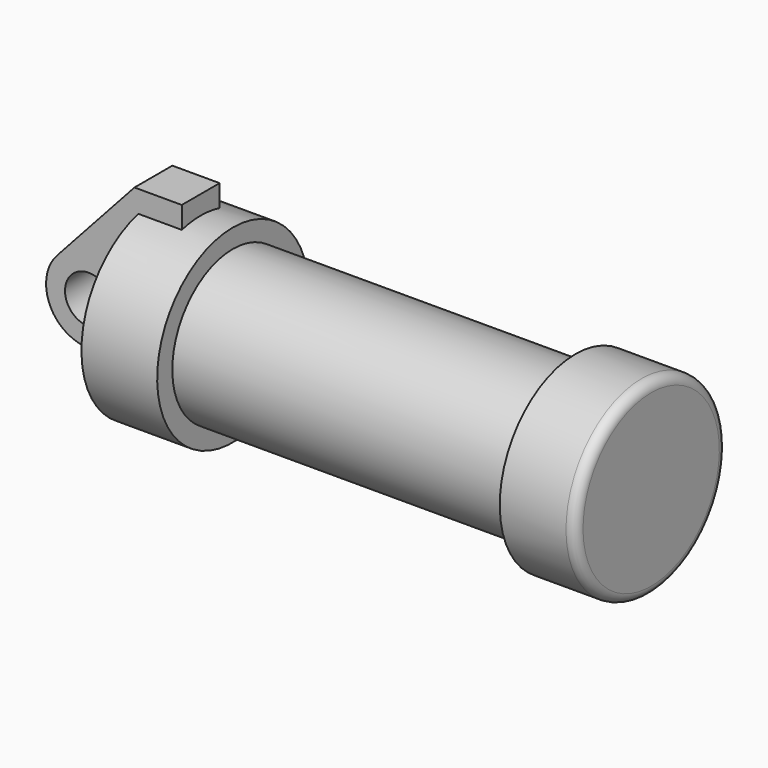
from build123d import *

# Parameters (mm, degrees)
F0_W     = 5.842
F0_H     = 12.7
F0_R     = 3.175
F2_DEPTH = 3.175
F3_R     = 1.27


with BuildPart() as f1:
    # F0 (on Front) → F1 (revolve)
    with BuildSketch(Plane.XZ):
        with Locations((2.921, 6.35)):
            Rectangle(F0_W, F0_H)
        Polygon((5.842, 12.7), (5.842, 0), (66.294, 0), (66.294, 12.7), (56.134, 12.7), (56.134, 10.16), (10.16, 10.16), (10.16, 12.7), align=None)
    revolve(axis=Axis((33.147, 0, 0), (-1, 0, 0)))

    # F0 (on Front) → F2 (join, symmetric)
    with BuildSketch(Plane.XZ):
        with BuildLine():
            Line((-0.9398, 0), (0, 0))
            Line((0, 0), (0, 12.7))
            Line((0, 12.7), (5.842, 12.7))
            Line((5.842, 12.7), (5.842, 15.24))
            Line((5.842, 15.24), (-0.508, 15.24))
            Line((-0.508, 15.24), (-10.88063, 3.847543))
            ThreePointArc((-10.88063, 3.847543), (-4.591961, 5.329721), (-0.9398, 0))
        make_face()
        with BuildLine():
            ThreePointArc((-8.182663, -5.506983), (-3.195791, -4.549339), (-0.9398, 0))
            ThreePointArc((-0.9398, 0), (-4.591961, 5.329721), (-10.88063, 3.847543))
            ThreePointArc((-10.88063, 3.847543), (-12.145978, -1.583727), (-8.182663, -5.506983))
        make_face()
        with Locations((-6.6548, 0)):
            Circle(F0_R, mode=Mode.SUBTRACT)
        with BuildLine():
            Line((5.842, 0), (0, 0))
            Line((0, 0), (-0.9398, 0))
            ThreePointArc((-0.9398, 0), (-3.195791, -4.549339), (-8.182663, -5.506983))
            Line((-8.182663, -5.506983), (5.842, -9.398))
            Line((5.842, -9.398), (5.842, 0))
        make_face()
        with Locations((2.921, 6.35)):
            Rectangle(F0_W, F0_H)
    extrude(amount=F2_DEPTH, both=True)

    # F3
    f3_edges = [f1.edges().sort_by_distance(p)[0] for p in [
        (66.294, 0, -12.7),
    ]]
    fillet(f3_edges, radius=F3_R)


solid = f1.part
